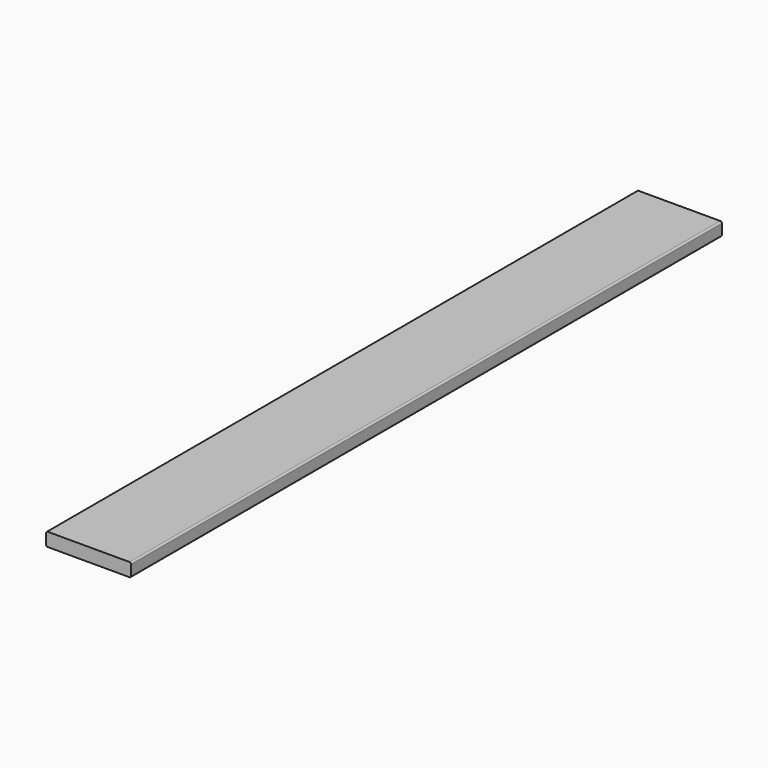
from build123d import *

# Parameters (mm, degrees)
F1_DEPTH = 1047.75


with BuildPart() as f1:
    # F0 (on Front) → F1 (new body, symmetric)
    with BuildSketch(Plane.XZ):
        with BuildLine():
            Line((115.824, 19.05), (-115.824, 19.05))
            ThreePointArc((-115.824, 19.05), (-119.236497, 17.636497), (-120.65, 14.224))
            Line((-120.65, 14.224), (-120.65, -14.224))
            ThreePointArc((-120.65, -14.224), (-119.236497, -17.636497), (-115.824, -19.05))
            Line((-115.824, -19.05), (115.824, -19.05))
            ThreePointArc((115.824, -19.05), (119.236497, -17.636497), (120.65, -14.224))
            Line((120.65, -14.224), (120.65, 14.224))
            ThreePointArc((120.65, 14.224), (119.236497, 17.636497), (115.824, 19.05))
        make_face()
    extrude(amount=F1_DEPTH, both=True)


solid = f1.part
